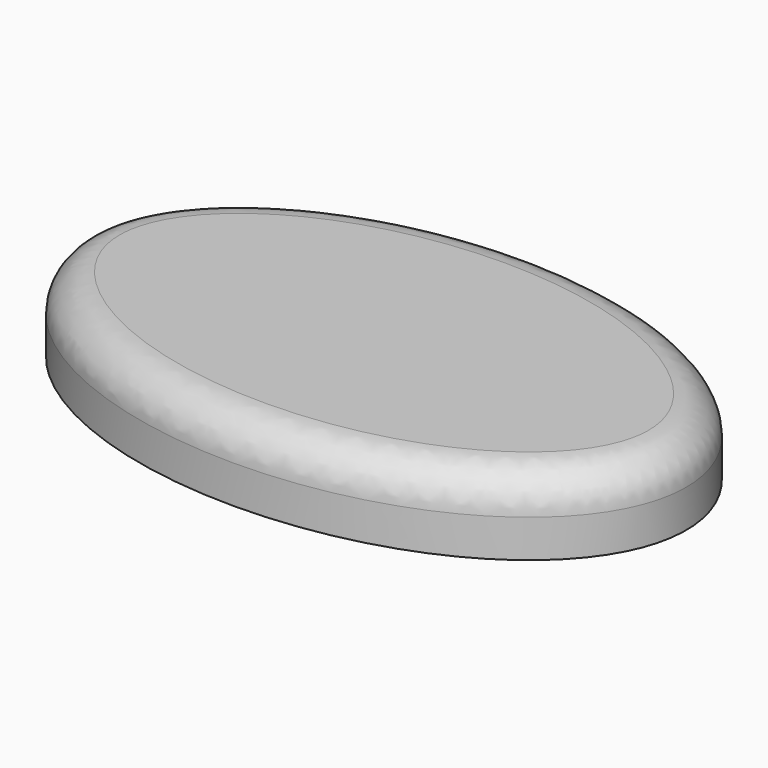
from build123d import *

# Parameters (mm, degrees)
F1_DEPTH = 10
F2_R     = 5


with BuildPart() as f1:
    # F0 (on Top) → F1 (new body)
    with BuildSketch(Plane.XY):
        with BuildLine():
            add(Edge.make_bspline(
                [(-40, 0), (-40, -43.30127), (20, -21.650635), (80, 0), (20, 21.650635), (-40, 43.30127), (-40, 0)],
                knots=[0, 0, 0, 2.094395, 2.094395, 4.18879, 4.18879, 6.283185, 6.283185, 6.283185], degree=2, weights=[1, 0.5, 1, 0.5, 1, 0.5, 1]))
        make_face()
    extrude(amount=F1_DEPTH)

    # F2
    f2_edges = [f1.edges().sort_by_distance(p)[0] for p in [
        (40, 0, 10),
    ]]
    fillet(f2_edges, radius=F2_R)


solid = f1.part
